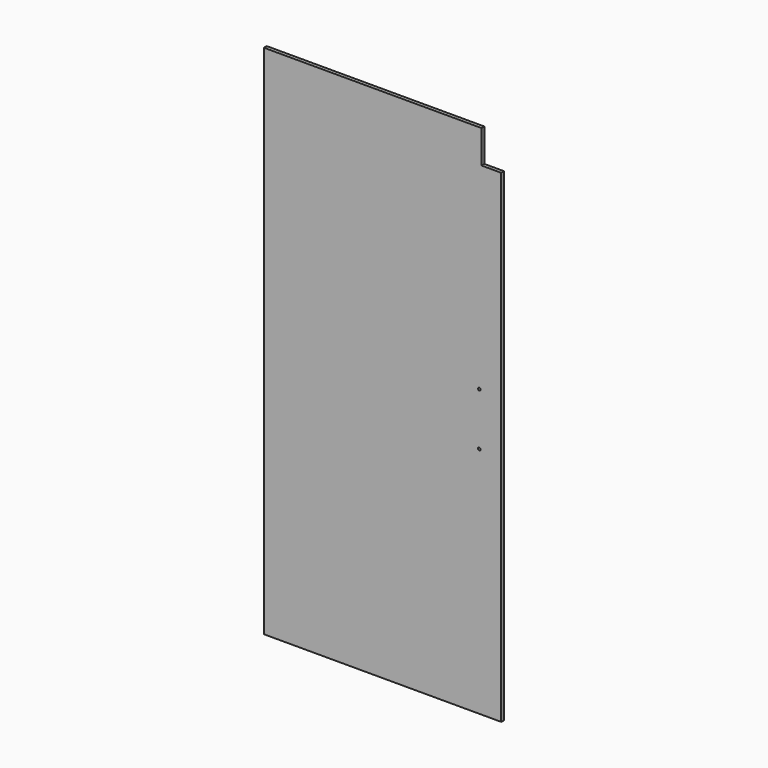
from build123d import *

# Parameters (mm, degrees)
F0_R     = 3
F1_DEPTH = 8


with BuildPart() as f1:
    # F0 (on Front) → F1 (new body)
    with BuildSketch(Plane.XZ):
        Polygon((0, 1175), (0, 0), (540, 0), (540, 1100), (495, 1100), (495, 1175), align=None)
        with Locations((490, 530.5)):
            Circle(F0_R, mode=Mode.SUBTRACT)
        with Locations((490, 650.5)):
            Circle(F0_R, mode=Mode.SUBTRACT)
    extrude(amount=F1_DEPTH)


solid = f1.part
